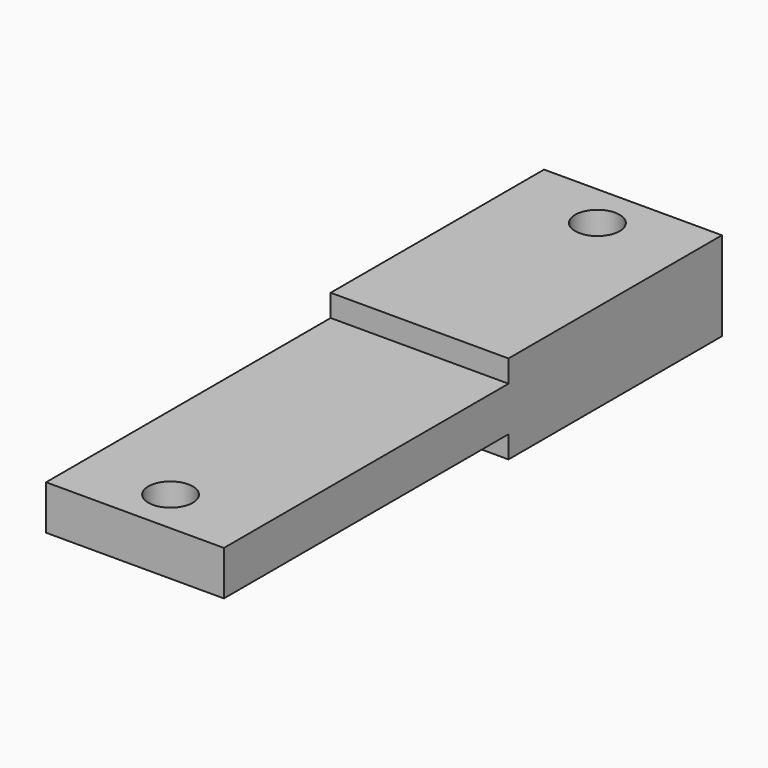
from build123d import *

# Parameters (mm, degrees)
F0_W     = 12.7
F0_H     = 6.35
F1_DEPTH = 44.45
F2_W     = 17.78
F2_H     = 7.174791
F3_DEPTH = 6.35
F2_H_2   = 14.010797
F4_DEPTH = 25.4
F5_R     = 1.5875
F6_DEPTH = 3.175
F7_R     = 1.5875
F8_DEPTH = 6.35


with BuildPart() as f1:
    # F0 (on Front) → F1 (new body)
    with BuildSketch(Plane.XZ):
        with Locations((6.35, 3.175)):
            Rectangle(F0_W, F0_H)
    extrude(amount=-F1_DEPTH)

    # F2 (on Front) → F3 (cut)
    with BuildSketch(Plane.XZ):
        with Locations((5.08, -1.999895)):
            Rectangle(F2_W, F2_H)
    extrude(amount=-F3_DEPTH, mode=Mode.SUBTRACT)

    # F2 (on Front) → F4 (cut)
    with BuildSketch(Plane.XZ):
        with Locations((5.08, 11.767898)):
            Rectangle(F2_W, F2_H_2)
        with Locations((5.08, -1.999895)):
            Rectangle(F2_W, F2_H)
    extrude(amount=-F4_DEPTH, mode=Mode.SUBTRACT)

    # F5 (on face) → F6 (cut, through all)
    with BuildSketch(Plane(origin=(0, 0, 1.5875), x_dir=(1, 0, 0), z_dir=(0, 0, -1))):
        with Locations((6.35, -3.175)):
            Circle(F5_R)
    extrude(amount=-F6_DEPTH, mode=Mode.SUBTRACT)

    # F7 (on face) → F8 (cut, through all)
    with BuildSketch(Plane.XY.offset(6.35)):
        with Locations((6.35, 41.275)):
            Circle(F7_R)
    extrude(amount=-F8_DEPTH, mode=Mode.SUBTRACT)


solid = f1.part
